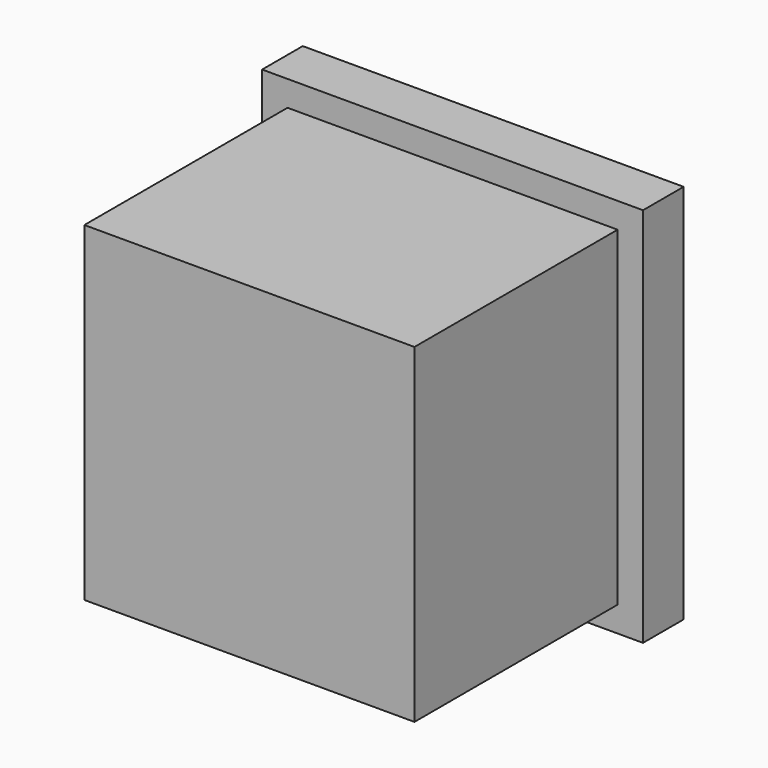
from build123d import *

# Parameters (mm, degrees)
F0_W     = 15
F0_H     = 15
F1_DEPTH = 2
F2_W     = 13
F2_H     = 13
F3_DEPTH = 10


with BuildPart() as f1:
    # F0 (on Front) → F1 (new body)
    with BuildSketch(Plane.XZ):
        Rectangle(F0_W, F0_H)
    extrude(amount=F1_DEPTH)

    # F2 (on face) → F3 (join)
    with BuildSketch(Plane.XZ.offset(2)):
        Rectangle(F2_W, F2_H)
    extrude(amount=F3_DEPTH)


solid = f1.part
